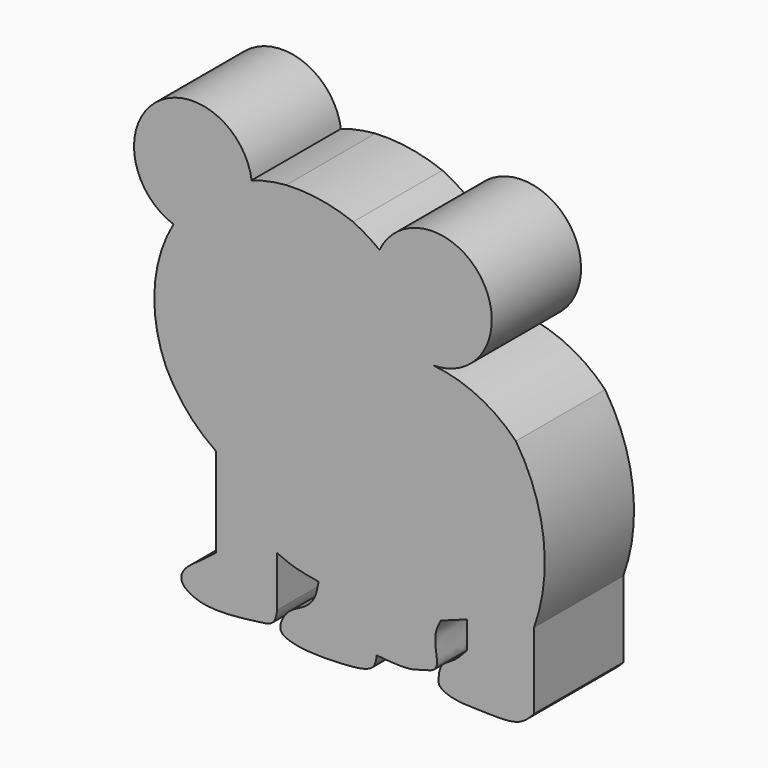
from build123d import *

# Parameters (mm, degrees)
F1_DEPTH = 25.4


with BuildPart() as f1:
    # F0 (on Front) → F1 (new body)
    with BuildSketch(Plane.XZ):
        with BuildLine():
            ThreePointArc((0, 42.9737381637), (-7.4861898677, 44.9925288768), (-15.2291813865, 45.3982837498))
            ThreePointArc((-15.2291813865, 45.3982837498), (-19.2105346963, 44.8374406873), (-23.0924291486, 43.7902470191))
            ThreePointArc((-23.0924291486, 43.7902470191), (-33.3282019426, 38.1196064874), (-40.8986716611, 29.1968716505))
            ThreePointArc((-40.8986716611, 29.1968716505), (-45.1975038128, 14.7969191466), (-42.5726659596, 0))
            ThreePointArc((-42.5726659596, 0), (-37.7690709473, -7.2927906414), (-31.2552090195, -13.109054319))
            ThreePointArc((-31.2552090195, -13.109054319), (-29.8308177121, -14.0301404898), (-28.361948207, -14.8784993216))
            ThreePointArc((-28.361948207, -14.8784993216), (-16.9933817188, -21.8702734562), (-4.3495143764, -17.5968874246))
            ThreePointArc((-4.3495143764, -17.5968874246), (7.9926398701, -11.1065420599), (16.4246074855, 0))
            ThreePointArc((16.4246074855, 0), (18.9079268688, 9.9325227313), (18.2490384722, 20.1495550328))
            ThreePointArc((18.2490384722, 20.1495550328), (13.821330595, 30.8089892208), (6.0138438985, 39.3102412308))
            ThreePointArc((6.0138438985, 39.3102412308), (3.1042577429, 41.3017720799), (0, 42.9737381637))
        make_face()
        with BuildLine():
            ThreePointArc((-40.8986716611, 29.1968716505), (-33.3282019426, 38.1196064874), (-23.0924291486, 43.7902470191))
            ThreePointArc((-23.0924291486, 43.7902470191), (-44.9428198439, 52.2912904068), (-40.8986716611, 29.1968716505))
        make_face()
        with BuildLine():
            ThreePointArc((18.2490384722, 20.1495550328), (29.4657127229, 40.7988224315), (6.0138438985, 39.3102412308))
            ThreePointArc((6.0138438985, 39.3102412308), (13.821330595, 30.8089892208), (18.2490384722, 20.1495550328))
        make_face()
        with BuildLine():
            ThreePointArc((37.0601788163, 11.0902497545), (28.4609236644, 17.294170402), (18.2490384722, 20.1495550328))
            ThreePointArc((18.2490384722, 20.1495550328), (18.9079268688, 9.9325227313), (16.4246074855, 0))
            ThreePointArc((16.4246074855, 0), (7.9926398701, -11.1065420599), (-4.3495143764, -17.5968874246))
            ThreePointArc((-4.3495143764, -17.5968874246), (-16.9933817188, -21.8702734562), (-28.361948207, -14.8784993216))
            ThreePointArc((-28.361948207, -14.8784993216), (-29.8308177121, -14.0301404898), (-31.2552090195, -13.109054319))
            Line((-31.2552090195, -13.109054319), (-31.2552090195, -33.5024002528))
            add(Edge.make_bspline(
                [(-17.2816589475, -40.4454879463), (-17.4348455039, -41.5120256661), (-17.7619930237, -43.7897397021), (-22.1632024997, -44.2722579746), (-28.5056890309, -45.1145318125), (-35.4129211064, -44.9164947459), (-39.7092370115, -42.0016879708), (-38.5618095977, -38.7276510581), (-34.6004923534, -36.1789535098), (-32.3574122808, -34.3842704666), (-31.2552090195, -33.5024002528)],
                knots=[0, 0, 0, 0, 0.1014479123, 0.2166536911, 0.3702833647, 0.5282002887, 0.6510719796, 0.7478085459, 0.8760783235, 1, 1, 1, 1], degree=3))
            Line((-17.2816589475, -40.4454879463), (-17.2816589475, -29.0160719305))
            add(Edge.make_bspline(
                [(-17.2816589475, -29.0160719305), (-16.0460952254, -29.5656103224), (-13.3771967925, -30.7526491831), (-9.7827772206, -31.3578896062), (-7.8523904085, -31.682934612)],
                knots=[0, 0, 0, 0, 0.4629489481, 1, 1, 1, 1], degree=3))
            add(Edge.make_bspline(
                [(-7.8523904085, -31.682934612), (-8.0736253594, -32.925089918), (-8.5010804216, -35.3250975638), (-10.7599609169, -37.7926443255), (-13.9907303996, -39.1159904722), (-16.0969254415, -41.3357904855), (-17.0949504146, -44.70106277), (-13.8158750799, -45.9782766463), (-9.650243257, -46.6216044987), (-2.029773011, -46.4887725826), (4.9076729864, -45.742707569), (5.2480737247, -43.1966541358), (5.3866845556, -42.1599037945)],
                knots=[0, 0, 0, 0, 0.0966352951, 0.1867121172, 0.2801678384, 0.3692327863, 0.4539086021, 0.5381906171, 0.6432217933, 0.7865150329, 0.9130691408, 1, 1, 1, 1], degree=3))
            add(Edge.make_bspline(
                [(19.9591908604, -30.4447486997), (19.5472052355, -31.2358847399), (18.6634853913, -32.9328920524), (18.6361377571, -36.3232438556), (19.701787987, -40.8722996241), (15.9530127369, -41.5306882266), (13.3688530498, -42.5800583286), (8.8606735168, -42.4957201225), (6.502533565, -42.2677683621), (5.3866845556, -42.1599037945)],
                knots=[0, 0, 0, 0, 0.1270991379, 0.2726309452, 0.4257995595, 0.5587075908, 0.6919974537, 0.8542561751, 1, 1, 1, 1], degree=3))
            add(Edge.make_bspline(
                [(19.9591908604, -30.4447486997), (21.9593389581, -29.7145359218), (23.9594870557, -28.984323144), (25.9596351534, -28.2541103661)],
                knots=[0, 0, 0, 0, 6.3878187218, 6.3878187218, 6.3878187218, 6.3878187218], degree=3))
            Line((25.9596351534, -28.2541103661), (25.9596351534, -34.4450436532))
            add(Edge.make_bspline(
                [(25.9596351534, -34.4450436532), (24.9923691912, -35.5317891459), (23.1750549567, -37.573583368), (19.871983121, -38.9269805667), (19.4520488738, -41.7499793313), (19.3061754257, -44.1005988442), (23.8507522468, -45.5830711269), (30.307070396, -45.5271703291), (37.8036132666, -45.8186953894), (40.1556423214, -43.350078272), (41.1988608539, -42.2551482916)],
                knots=[0, 0, 0, 0, 0.1262152111, 0.2371350886, 0.3357584002, 0.4207942635, 0.5435645905, 0.7052453739, 0.8692645876, 1, 1, 1, 1], degree=3))
            Line((41.1988608539, -42.2551482916), (41.1988608539, -24.9207969755))
            ThreePointArc((41.1988608539, -24.9207969755), (43.3726774995, -6.427615461), (37.0601788163, 11.0902497545))
        make_face()
    extrude(amount=F1_DEPTH)


solid = f1.part
